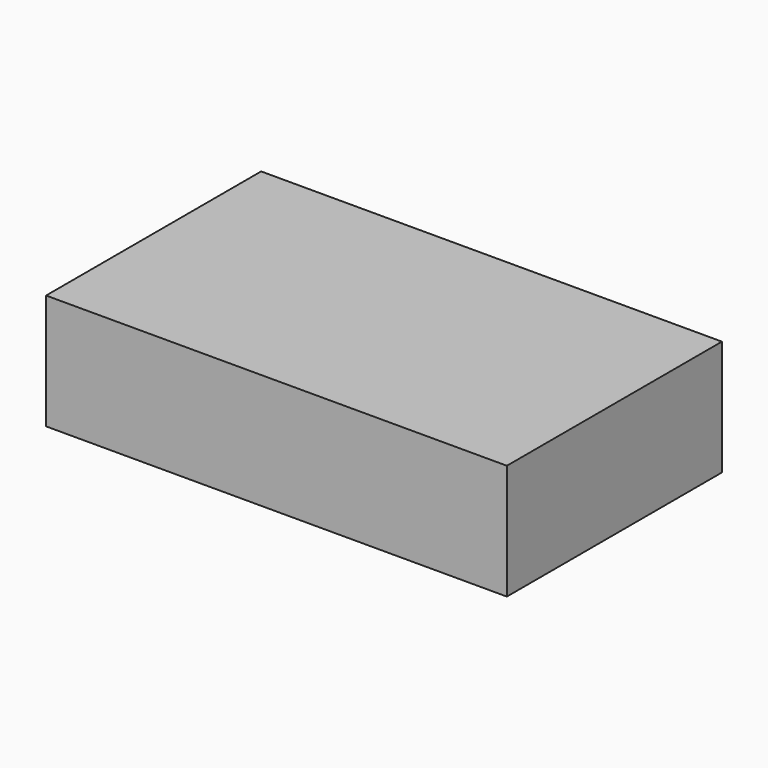
from build123d import *

# Parameters (mm, degrees)
F0_W     = 88.9
F0_H     = 38.1
F1_DEPTH = 152.4


with BuildPart() as f1:
    # F0 (on Right) → F1 (new body)
    with BuildSketch(Plane.YZ):
        Rectangle(F0_W, F0_H)
        Rectangle(F0_W, F0_H)
    extrude(amount=F1_DEPTH)


solid = f1.part
